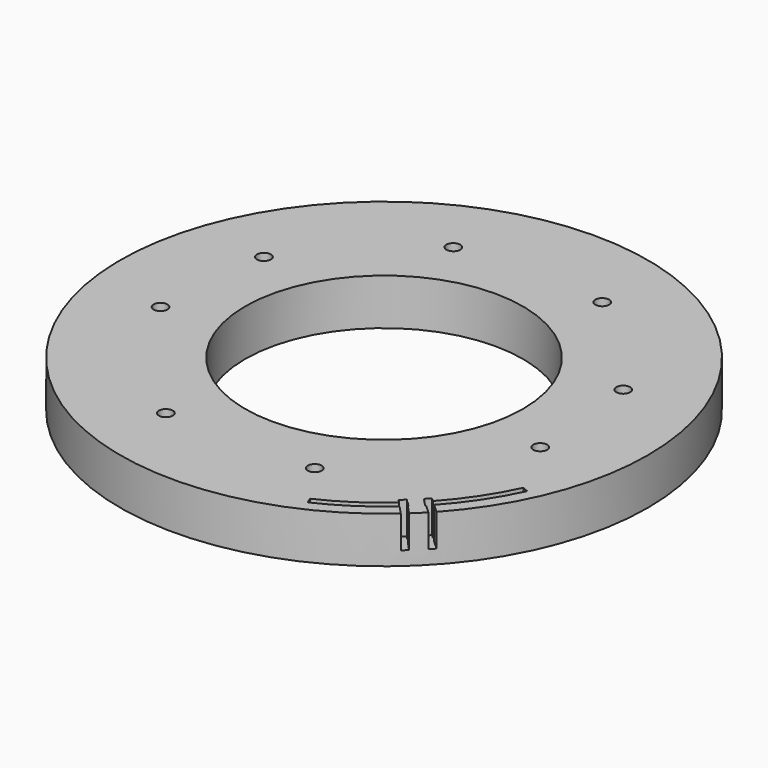
from build123d import *

# Parameters (mm, degrees)
BOX311_W                    = 60
BOX311_H                    = 60
BOX311_DEPTH                = 7
BOX311_PLACEMENT_ANGLE      = 1
BOX312_W                    = 60
BOX312_H                    = 60
BOX312_DEPTH                = 7
BOX312_PLACEMENT_ANGLE      = 2
BOX310_W                    = 120
BOX310_H                    = 60
BOX310_DEPTH                = 7
TUBE084_R                   = 54.4
TUBE084_R_2                 = 53
TUBE084_DEPTH               = 7
BOX308_W                    = 60
BOX308_H                    = 60
BOX308_DEPTH                = 7
BOX308_PLACEMENT_ANGLE      = 20
BOX307_W                    = 60
BOX307_H                    = 60
BOX307_DEPTH                = 7
BOX307_PLACEMENT_ANGLE      = 20
BOX309_W                    = 120
BOX309_H                    = 60
BOX309_DEPTH                = 7
TUBE085_R                   = 54.4
TUBE085_R_2                 = 53
TUBE085_DEPTH               = 7
CUT335_PLACEMENT_ANGLE      = 225
CYLINDER804_R               = 52
CYLINDER804_DEPTH           = 7
BOX313_W                    = 1.4
BOX313_H                    = 60
BOX313_DEPTH                = 7
BOX313_PLACEMENT_ANGLE      = 2.7
BOX314_W                    = 1.4
BOX314_H                    = 60
BOX314_DEPTH                = 7
BOX314_PLACEMENT_ANGLE      = 2
CUT339_PLACEMENT_ANGLE      = 224.9
CYLINDER808_R               = 1.5
CYLINDER808_DEPTH           = 100
CYLINDER808_PLACEMENT_ANGLE = 100
CYLINDER806_R               = 1.5
CYLINDER806_DEPTH           = 100
CYLINDER806_PLACEMENT_ANGLE = 135
CYLINDER810_R               = 1.5
CYLINDER810_DEPTH           = 100
CYLINDER812_R               = 1.5
CYLINDER812_DEPTH           = 100
CYLINDER812_PLACEMENT_ANGLE = 225
CYLINDER805_R               = 1.5
CYLINDER805_DEPTH           = 100
CYLINDER809_R               = 1.5
CYLINDER809_DEPTH           = 100
CYLINDER809_PLACEMENT_ANGLE = 55
CYLINDER807_R               = 1.5
CYLINDER807_DEPTH           = 100
CYLINDER811_R               = 1.5
CYLINDER811_DEPTH           = 100
CYLINDER811_PLACEMENT_ANGLE = 45
TUBE087_R                   = 57
TUBE087_R_2                 = 30
TUBE087_DEPTH               = 10


with BuildPart() as krychle311:
    # Box311 → Box311 (new body)
    with BuildSketch(Plane.XY):
        with Locations((30, 30)):
            Rectangle(BOX311_W, BOX311_H)
    extrude(amount=BOX311_DEPTH)


with BuildPart() as krychle311_1:
    # Box311 placement: moved
    add(krychle311.part.moved(Location((-59.990862, -1.047144, -22))).rotate(Axis((-59.990862, -1.047144, -22), (0, 0, 1)), BOX311_PLACEMENT_ANGLE))


with BuildPart() as compound720:
    # Box312 → Box312 (new body)
    with BuildSketch(Plane.XY):
        with Locations((30, 30)):
            Rectangle(BOX312_W, BOX312_H)
    extrude(amount=BOX312_DEPTH)


with BuildPart() as compound720_1:
    # Box312 placement: moved
    add(compound720.part.moved(Location((0, 0, -22))).rotate(Axis((0, 0, -22), (0, 0, -1)), BOX312_PLACEMENT_ANGLE))

    # Compound720: union Krychle311
    add(krychle311_1.part)


with BuildPart() as krychle310:
    # Box310 → Box310 (new body)
    with BuildSketch(Plane(origin=(-60, -60, -22), x_dir=(1, 0, 0), z_dir=(0, 0, 1))):
        with Locations((60, 30)):
            Rectangle(BOX310_W, BOX310_H)
    extrude(amount=BOX310_DEPTH)


with BuildPart() as cut338:
    # Tube084 → Tube084 (new body)
    with BuildSketch(Plane.XY.offset(-22)):
        Circle(TUBE084_R)
        Circle(TUBE084_R_2, mode=Mode.SUBTRACT)
    extrude(amount=TUBE084_DEPTH)

    # Cut337: cut Krychle310
    add(krychle310.part, mode=Mode.SUBTRACT)

    # Cut338: cut Compound720
    add(compound720_1.part, mode=Mode.SUBTRACT)


with BuildPart() as cut338_1:
    # Cut338 placement: moved
    add(cut338.part.moved(Location((0, 0, -7))))


with BuildPart() as krychle308:
    # Box308 → Box308 (new body)
    with BuildSketch(Plane.XY):
        with Locations((30, 30)):
            Rectangle(BOX308_W, BOX308_H)
    extrude(amount=BOX308_DEPTH)


with BuildPart() as krychle308_1:
    # Box308 placement: moved
    add(krychle308.part.moved(Location((-56.381557, -20.521209, -22))).rotate(Axis((-56.381557, -20.521209, -22), (0, 0, 1)), BOX308_PLACEMENT_ANGLE))


with BuildPart() as compound718:
    # Box307 → Box307 (new body)
    with BuildSketch(Plane.XY):
        with Locations((30, 30)):
            Rectangle(BOX307_W, BOX307_H)
    extrude(amount=BOX307_DEPTH)


with BuildPart() as compound718_1:
    # Box307 placement: moved
    add(compound718.part.moved(Location((0, 0, -22))).rotate(Axis((0, 0, -22), (0, 0, -1)), BOX307_PLACEMENT_ANGLE))

    # Compound718: union Krychle308
    add(krychle308_1.part)


with BuildPart() as krychle309:
    # Box309 → Box309 (new body)
    with BuildSketch(Plane(origin=(-60, -60, -22), x_dir=(1, 0, 0), z_dir=(0, 0, 1))):
        with Locations((60, 30)):
            Rectangle(BOX309_W, BOX309_H)
    extrude(amount=BOX309_DEPTH)


with BuildPart() as cut335:
    # Tube085 → Tube085 (new body)
    with BuildSketch(Plane.XY.offset(-22)):
        Circle(TUBE085_R)
        Circle(TUBE085_R_2, mode=Mode.SUBTRACT)
    extrude(amount=TUBE085_DEPTH)

    # Cut334: cut Krychle309
    add(krychle309.part, mode=Mode.SUBTRACT)

    # Cut336: cut Compound718
    add(compound718_1.part, mode=Mode.SUBTRACT)


with BuildPart() as cut335_1:
    # Cut336 placement: moved
    add(cut335.part.moved(Location((0, 0, -7))))

    # Cut335: cut Cut338
    add(cut338_1.part, mode=Mode.SUBTRACT)


with BuildPart() as cut335_2:
    # Cut335 placement: moved
    add(cut335_1.part.moved(Location((0, 0, 74))).rotate(Axis((0, 0, 74), (0, 0, 1)), CUT335_PLACEMENT_ANGLE))


with BuildPart() as obj1:
    # Cylinder804 → Cylinder804 (new body)
    with BuildSketch(Plane.XY.offset(-22)):
        Circle(CYLINDER804_R)
    extrude(amount=CYLINDER804_DEPTH)


with BuildPart() as krychle313:
    # Box313 → Box313 (new body)
    with BuildSketch(Plane.XY):
        with Locations((0.7, 30)):
            Rectangle(BOX313_W, BOX313_H)
    extrude(amount=BOX313_DEPTH)


with BuildPart() as krychle313_1:
    # Box313 placement: moved
    add(krychle313.part.moved(Location((0, 0, -22))).rotate(Axis((0, 0, -22), (0, 0, 1)), BOX313_PLACEMENT_ANGLE))


with BuildPart() as cut339:
    # Box314 → Box314 (new body)
    with BuildSketch(Plane.XY):
        with Locations((0.7, 30)):
            Rectangle(BOX314_W, BOX314_H)
    extrude(amount=BOX314_DEPTH)


with BuildPart() as cut339_1:
    # Box314 placement: moved
    add(cut339.part.moved(Location((0, 0, -22))).rotate(Axis((0, 0, -22), (0, 0, -1)), BOX314_PLACEMENT_ANGLE))

    # Compound723: union Krychle313
    add(krychle313_1.part)

    # Cut339: cut obj1
    add(obj1.part, mode=Mode.SUBTRACT)


with BuildPart() as cut339_2:
    # Cut339 placement: moved
    add(cut339_1.part.moved(Location((0, 0, 67))).rotate(Axis((0, 0, 67), (0, 0, 1)), CUT339_PLACEMENT_ANGLE))


with BuildPart() as obj2:
    # Cylinder808 → Cylinder808 (new body)
    with BuildSketch(Plane.XY):
        Circle(CYLINDER808_R)
    extrude(amount=CYLINDER808_DEPTH)


with BuildPart() as obj2_1:
    # Cylinder808 placement: moved
    add(obj2.part.moved(Location((41.004432, -9.090464, 0))).rotate(Axis((41.004432, -9.090464, 0), (0, 0, 1)), CYLINDER808_PLACEMENT_ANGLE))


with BuildPart() as obj3:
    # Cylinder806 → Cylinder806 (new body)
    with BuildSketch(Plane.XY):
        Circle(CYLINDER806_R)
    extrude(amount=CYLINDER806_DEPTH)


with BuildPart() as obj3_1:
    # Cylinder806 placement: moved
    add(obj3.part.moved(Location((38.80294, 16.072704, 0))).rotate(Axis((38.80294, 16.072704, 0), (0, 0, 1)), CYLINDER806_PLACEMENT_ANGLE))


with BuildPart() as obj4:
    # Cylinder810 → Cylinder810 (new body)
    with BuildSketch(Plane(origin=(16.072704, 38.80294, 0), x_dir=(-1, 0, 0), z_dir=(0, 0, 1))):
        Circle(CYLINDER810_R)
    extrude(amount=CYLINDER810_DEPTH)


with BuildPart() as obj5:
    # Cylinder812 → Cylinder812 (new body)
    with BuildSketch(Plane.XY):
        Circle(CYLINDER812_R)
    extrude(amount=CYLINDER812_DEPTH)


with BuildPart() as obj5_1:
    # Cylinder812 placement: moved
    add(obj5.part.moved(Location((-16.072704, 38.80294, 0))).rotate(Axis((-16.072704, 38.80294, 0), (0, 0, 1)), CYLINDER812_PLACEMENT_ANGLE))


with BuildPart() as obj6:
    # Cylinder805 → Cylinder805 (new body)
    with BuildSketch(Plane(origin=(-38.80294, 16.072704, 0), x_dir=(0, -1, 0), z_dir=(0, 0, 1))):
        Circle(CYLINDER805_R)
    extrude(amount=CYLINDER805_DEPTH)


with BuildPart() as obj7:
    # Cylinder809 → Cylinder809 (new body)
    with BuildSketch(Plane.XY):
        Circle(CYLINDER809_R)
    extrude(amount=CYLINDER809_DEPTH)


with BuildPart() as obj7_1:
    # Cylinder809 placement: moved
    add(obj7.part.moved(Location((-41.004432, -9.090464, 0))).rotate(Axis((-41.004432, -9.090464, 0), (0, 0, -1)), CYLINDER809_PLACEMENT_ANGLE))


with BuildPart() as obj8:
    # Cylinder807 → Cylinder807 (new body)
    with BuildSketch(Plane(origin=(-16.072704, -38.80294, 0), x_dir=(1, 0, 0), z_dir=(0, 0, 1))):
        Circle(CYLINDER807_R)
    extrude(amount=CYLINDER807_DEPTH)


with BuildPart() as compound721:
    # Cylinder811 → Cylinder811 (new body)
    with BuildSketch(Plane.XY):
        Circle(CYLINDER811_R)
    extrude(amount=CYLINDER811_DEPTH)


with BuildPart() as compound721_1:
    # Cylinder811 placement: moved
    add(compound721.part.moved(Location((16.072704, -38.80294, 0))).rotate(Axis((16.072704, -38.80294, 0), (0, 0, 1)), CYLINDER811_PLACEMENT_ANGLE))

    # Compound721: union obj2, obj3, obj4, obj5, obj6, obj7, obj8
    add(obj2_1.part)
    add(obj3_1.part)
    add(obj4.part)
    add(obj5_1.part)
    add(obj6.part)
    add(obj7_1.part)
    add(obj8.part)


with BuildPart() as cut342:
    # Tube087 → Tube087 (new body)
    with BuildSketch(Plane.XY.offset(42)):
        Circle(TUBE087_R)
        Circle(TUBE087_R_2, mode=Mode.SUBTRACT)
    extrude(amount=TUBE087_DEPTH)

    # Cut340: cut Compound721
    add(compound721_1.part, mode=Mode.SUBTRACT)

    # Cut341: cut Cut339
    add(cut339_2.part, mode=Mode.SUBTRACT)

    # Cut342: cut Cut335
    add(cut335_2.part, mode=Mode.SUBTRACT)


solid = cut342.part
